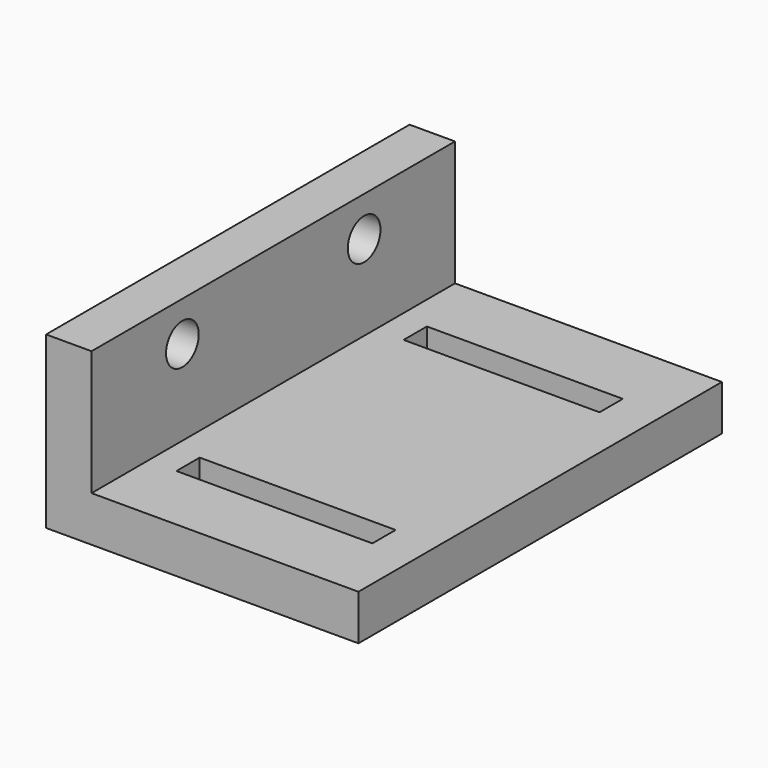
from build123d import *

# Parameters (mm, degrees)
F1_DEPTH = 50.8
F2_W     = 21.9075
F2_H     = 3.2512
F3_DEPTH = 25.4
F4_R     = 2.286
F5_DEPTH = 25.4


with BuildPart() as f1:
    # F0 (on Front) → F1 (new body)
    with BuildSketch(Plane.XZ):
        Polygon((-34.925, 0), (0, 0), (0, 5.08), (-29.845, 5.08), (-29.845, 19.05), (-34.925, 19.05), align=None)
    extrude(amount=F1_DEPTH)

    # F2 (on face) → F3 (cut)
    with BuildSketch(Plane.XY.offset(5.08)):
        with Locations((-15.71625, -41.275)):
            Rectangle(F2_W, F2_H)
        with Locations((-15.71625, -9.525)):
            Rectangle(F2_W, F2_H)
    extrude(amount=-F3_DEPTH, mode=Mode.SUBTRACT)

    # F4 (on face) → F5 (cut)
    with BuildSketch(Plane.YZ.offset(-29.845)):
        with Locations((-38.1, 14.605)):
            Circle(F4_R)
        with Locations((-12.7, 14.605)):
            Circle(F4_R)
    extrude(amount=-F5_DEPTH, mode=Mode.SUBTRACT)


solid = f1.part
